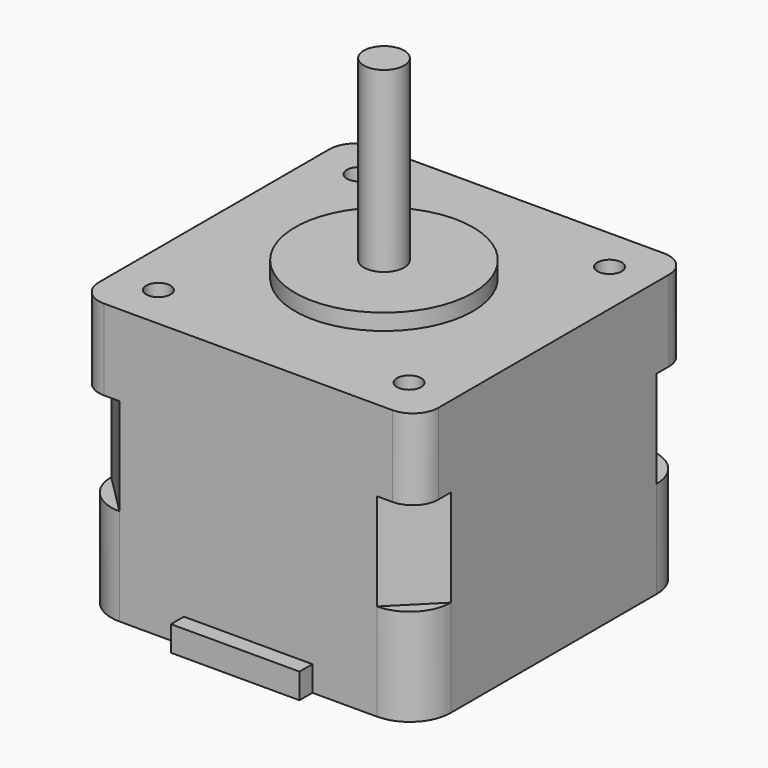
from build123d import *

# Parameters (mm, degrees)
F0_W      = 42
F0_H      = 42
F1_DEPTH  = 10
F2_R      = 11
F3_DEPTH  = 2
F4_R      = 3.175
F6_DEPTH  = 12
F7_W      = 42
F7_H      = 42
F8_DEPTH  = 12
F9_R      = 5.08
F11_D     = 3
F11_DEPTH = 4
F11_TIP   = 0.9012909285
F12_R     = 2.5
F13_DEPTH = 22
F15_DEPTH = 2


with BuildPart() as f1:
    # F0 (on Top) → F1 (new body)
    with BuildSketch(Plane.XY):
        with Locations((0.959161669, -4.3165409938)):
            Rectangle(F0_W, F0_H)
    extrude(amount=F1_DEPTH)

    # F2 (on face) → F3 (join)
    with BuildSketch(Plane.XY.offset(10)):
        with Locations((0.959161669, -4.3165409938)):
            Circle(F2_R)
    extrude(amount=F3_DEPTH)

    # F4
    f4_edges = [f1.edges().sort_by_distance(p)[0] for p in [
        (21.959162, -25.316541, 5),
        (21.959162, 16.683459, 5),
        (-20.040838, 16.683459, 5),
        (-20.040838, -25.316541, 5),
    ]]
    fillet(f4_edges, radius=F4_R)

    # F5 (on face) → F6 (join)
    with BuildSketch(Plane(origin=(0, 0, 0), x_dir=(1, 0, 0), z_dir=(0, 0, -1))):
        Polygon((-20.040838331, 20.2365409938), (-20.040838331, -11.6034590062), (-14.960838331, -16.6834590062), (0.959161669, -16.6834590062), (16.879161669, -16.6834590062), (21.959161669, -11.6034590062), (21.959161669, 20.2365409938), (16.879161669, 25.3165409938), (0.959161669, 25.3165409938), (-14.960838331, 25.3165409938), align=None)
    extrude(amount=F6_DEPTH)

    # F7 (on face) → F8 (join)
    with BuildSketch(Plane(origin=(0, 0, -12), x_dir=(1, 0, 0), z_dir=(0, 0, -1))):
        with Locations((0.959161669, 4.3165409938)):
            Rectangle(F7_W, F7_H)
    extrude(amount=F8_DEPTH)

    # F9
    f9_edges = [f1.edges().sort_by_distance(p)[0] for p in [
        (21.959162, 16.683459, -18),
        (21.959162, -25.316541, -18),
        (-20.040838, 16.683459, -18),
        (-20.040838, -25.316541, -18),
    ]]
    fillet(f9_edges, radius=F9_R)

    # F11
    with Locations(Plane.XY.offset(10)):
        with Locations((-14.540838331, 11.1834590062), (-14.540838331, -19.8165409938), (16.459161669, -19.8165409938), (16.459161669, 11.1834590062)):
            Hole(F11_D / 2, depth=F11_DEPTH)
            with Locations((0, 0, -(F11_DEPTH + F11_TIP / 2))):  # 118° drill point
                Cone(0, F11_D / 2, F11_TIP, mode=Mode.SUBTRACT)

    # F12 (on face) → F13 (join)
    with BuildSketch(Plane.XY.offset(12)):
        with Locations((0.959161669, -4.3165409938)):
            Circle(F12_R)
    extrude(amount=F13_DEPTH)

    # F14 (on face) → F15 (join)
    with BuildSketch(Plane.XZ.offset(25.3165409938)):
        Polygon((-6.987169385, -24), (0.959161669, -24), (8.905492723, -24), (8.905492723, -20.8772607148), (0.959161669, -20.8772607148), (-6.987169385, -20.8772607148), align=None)
    extrude(amount=F15_DEPTH)


solid = f1.part
